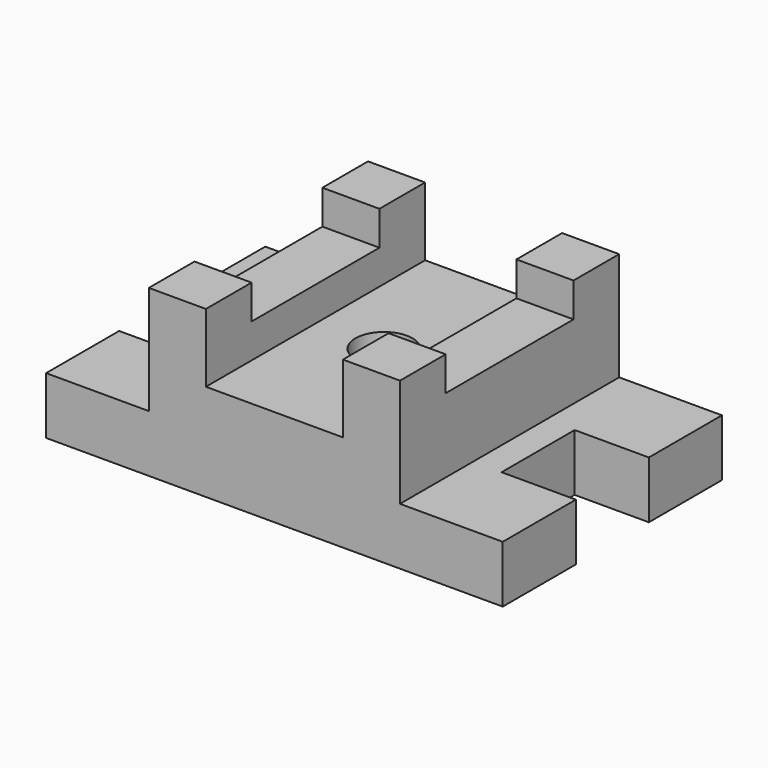
from build123d import *

# Parameters (mm, degrees)
F0_W     = 31.75
F0_H     = 31.75
F0_H_2   = 88.9
F0_R     = 15.875
F1_DEPTH = 31.75
F2_DEPTH = 92.075
F3_DEPTH = 73.025
F4_DEPTH = 53.975


with BuildPart() as f1:
    # F0 (on Top) → F1 (new body)
    with BuildSketch(Plane.XY):
        Polygon((-69.85, 76.2), (-127, 76.2), (-127, 25.4), (-85.725, 25.4), (-85.725, -25.4), (-127, -25.4), (-127, -76.2), (-69.85, -76.2), (-69.85, -44.45), (-69.85, 44.45), align=None)
        with Locations((-53.975, -60.325)):
            Rectangle(F0_W, F0_H)
        with Locations((53.975, 0)):
            Rectangle(F0_W, F0_H_2)
        Polygon((127, 76.2), (69.85, 76.2), (69.85, 44.45), (69.85, -44.45), (69.85, -76.2), (127, -76.2), (127, -25.4), (85.725, -25.4), (85.725, 25.4), (127, 25.4), align=None)
        Polygon((69.85, -44.45), (38.1, -44.45), (38.1, -76.2), (69.1378563643, -76.2), (69.85, -76.2), align=None)
        Polygon((69.1378563643, 76.2), (38.1, 76.2), (38.1, 44.45), (69.85, 44.45), (69.85, 76.2), align=None)
        Polygon((27.2374711931, 76.2), (-38.1, 76.2), (-38.1, 44.45), (-38.1, -44.45), (-38.1, -76.2), (27.2374711931, -76.2), (38.1, -76.2), (38.1, -44.45), (38.1, 44.45), (38.1, 76.2), align=None)
        Circle(F0_R, mode=Mode.SUBTRACT)
        with Locations((-53.975, 60.325)):
            Rectangle(F0_W, F0_H)
        with Locations((-53.975, 0)):
            Rectangle(F0_W, F0_H_2)
    extrude(amount=F1_DEPTH)

    # F0 (on Top) → F2 (join)
    with BuildSketch(Plane.XY):
        with Locations((-53.975, 60.325)):
            Rectangle(F0_W, F0_H)
        with Locations((-53.975, -60.325)):
            Rectangle(F0_W, F0_H)
        Polygon((69.1378563643, 76.2), (38.1, 76.2), (38.1, 44.45), (69.85, 44.45), (69.85, 76.2), align=None)
        Polygon((69.85, -44.45), (38.1, -44.45), (38.1, -76.2), (69.1378563643, -76.2), (69.85, -76.2), align=None)
    extrude(amount=F2_DEPTH)

    # F0 (on Top) → F3 (join)
    with BuildSketch(Plane.XY):
        with Locations((-53.975, 0)):
            Rectangle(F0_W, F0_H_2)
        with Locations((53.975, 0)):
            Rectangle(F0_W, F0_H_2)
    extrude(amount=F3_DEPTH)

    # F0 (on Top) → F4 (join)
    with BuildSketch(Plane.XY):
        Polygon((27.2374711931, 76.2), (-38.1, 76.2), (-38.1, 44.45), (-38.1, -44.45), (-38.1, -76.2), (27.2374711931, -76.2), (38.1, -76.2), (38.1, -44.45), (38.1, 44.45), (38.1, 76.2), align=None)
        Circle(F0_R, mode=Mode.SUBTRACT)
    extrude(amount=F4_DEPTH)


solid = f1.part
